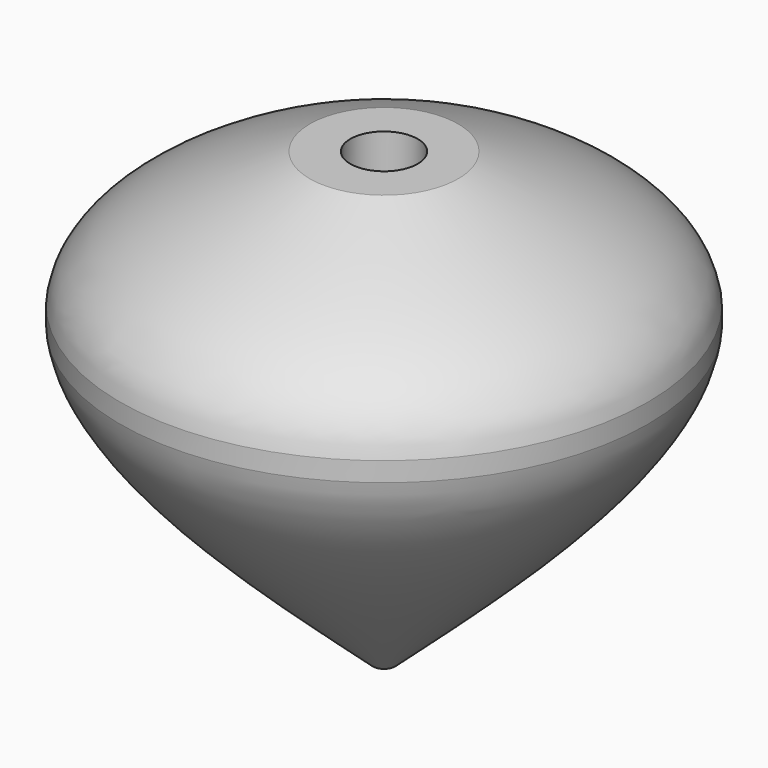
from build123d import *


with BuildPart() as f1:
    # F0 (on Front) → F1 (revolve)
    with BuildSketch(Plane.XZ):
        with BuildLine():
            Line((-4.7625, 22.225), (-4.7625, 31.75))
            Line((-4.7625, 31.75), (-10.4775, 31.75))
            add(Edge.make_bspline(
                [(-10.4775, 31.75), (-23.2785131592, 26.4577216245), (-36.0795263184, 21.1654432489), (-37.2562628995, 12.7)],
                knots=[0, 0, 0, 0, 0.4316129486, 0.4316129486, 0.4316129486, 0.4316129486], degree=3))
            Line((-37.2562628995, 12.7), (-37.2562628995, 9.9594308139))
            add(Edge.make_bspline(
                [(-37.2562628995, 9.9594308139), (-35.8675474383, -1.0772119386), (-18.7275237192, -16.4136059693), (-1.5875, -31.75)],
                knots=[0.4764864414, 0.4764864414, 0.4764864414, 0.4764864414, 1, 1, 1, 1], degree=3))
            Line((-1.5875, -31.75), (-1.5875, -10.16))
            Line((-1.5875, -10.16), (0, -10.16))
            Line((0, -10.16), (0, 22.225))
            Line((0, 22.225), (-4.7625, 22.225))
        make_face()
    revolve(axis=Axis((0, 0, 0), (0, 0, -1)))


solid = f1.part
